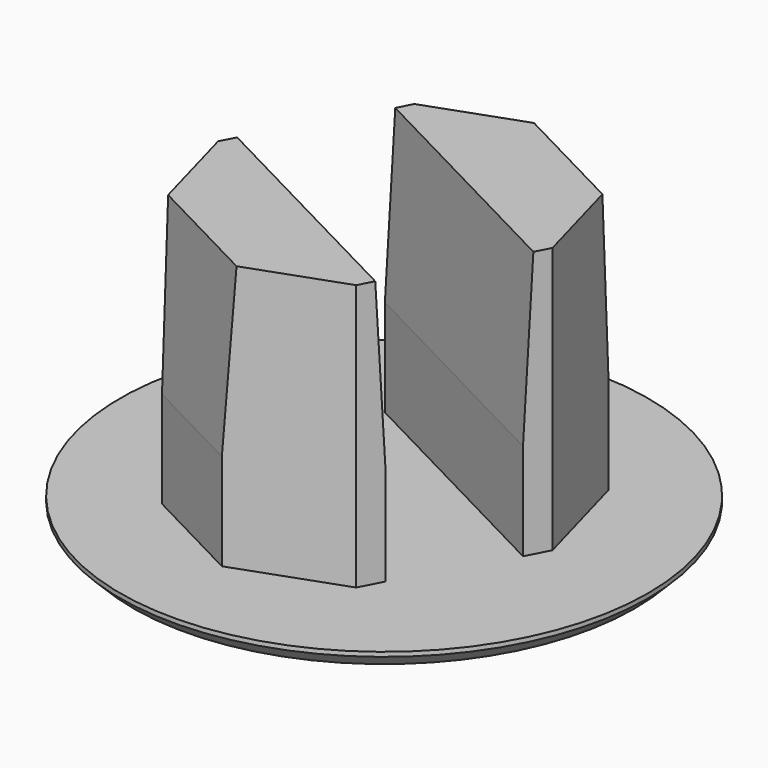
from build123d import *

# Parameters (mm, degrees)
F0_R       = 29.75
F1_DEPTH   = 2
F3_DEPTH   = 30
F4_SIZE2   = 19.0811366877
F4_SIZE    = 1
F5_SIZE2   = 1.0013554388
F5_SIZE    = 19.107
F5_2_SIZE2 = 1.0013554388
F5_2_SIZE  = 19.107
F6_SIZE    = 1.5


with BuildPart() as f1:
    # F0 (on Top) → F1 (new body)
    with BuildSketch(Plane.XY):
        Circle(F0_R)
    extrude(amount=F1_DEPTH)

    # F2 (on face) → F3 (join)
    with BuildSketch(Plane.XY.offset(2)):
        Polygon((10.3176952883, -12.6805032999), (-16.307790299, 1.1427928787), (-17.614022031, -1.3731811483), (-14.2932211873, -13.4240019402), (-2.7555107662, -19.4140969509), (9.0114635564, -15.1964773269), align=None)
        Polygon((-8.5677054632, 14.9660890572), (-9.8739371952, 12.4501150302), (16.7515483921, -1.3731811483), (18.0577801241, 1.1427928787), (14.7369792805, 13.1936136705), (3.1992688593, 19.1837086812), align=None)
    extrude(amount=F3_DEPTH)

    # F4
    f4_edges = [f1.edges().sort_by_distance(p)[0] for p in [
        (3.438806, 5.538467, 32),
        (8.968124, 16.188661, 32),
    ]]
    f4_side = f1.faces().sort_by_distance((5.828725, 10.141766, 32))[0]
    chamfer(f4_edges, length=F4_SIZE, length2=F4_SIZE2, reference=f4_side)

    # F5
    f5_edges = [f1.edges().sort_by_distance(p)[0] for p in [
        (-2.995048, -5.768855, 32),
    ]]
    f5_side = f1.faces().sort_by_distance((-2.995048, -5.768855, 17))[0]
    chamfer(f5_edges, length=F5_SIZE, length2=F5_SIZE2, reference=f5_side)

    # F5#2
    f5_2_edges = [f1.edges().sort_by_distance(p)[0] for p in [
        (-8.524366, -16.419049, 32),
    ]]
    f5_2_side = f1.faces().sort_by_distance((-8.524366, -16.419049, 17))[0]
    chamfer(f5_2_edges, length=F5_2_SIZE, length2=F5_2_SIZE2, reference=f5_2_side)

    # F6
    f6_edges = [f1.edges().sort_by_distance(p)[0] for p in [
        (-29.75, 0, 0),
    ]]
    chamfer(f6_edges, length=F6_SIZE)


solid = f1.part
